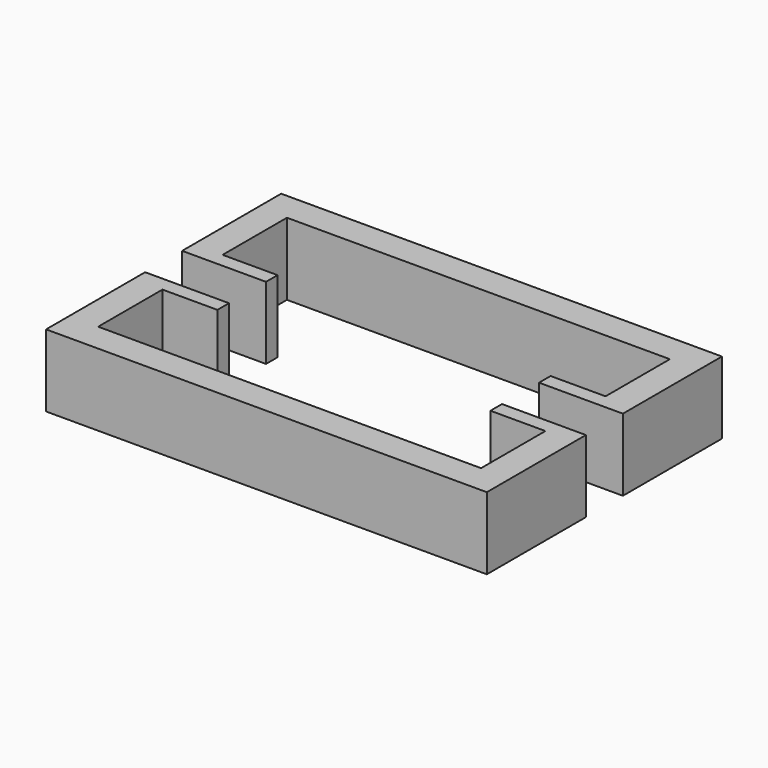
from build123d import *

# Parameters (mm, degrees)
F1_DEPTH = 25


with BuildPart() as f1:
    # F0 (on Top) → F1 (new body)
    with BuildSketch(Plane.XY):
        Polygon((-76.2, 101.6), (-76.2, 63.8), (-66.2, 63.8), (-66.2, 91.6), (66.2, 91.6), (66.2, 63.8), (76.2, 63.8), (76.2, 101.6), align=None)
        Polygon((-76.2, 63.8), (-76.2, 58.8), (-47.2, 58.8), (-47.2, 63.8), (-66.2, 63.8), align=None)
        Polygon((-76.2, 42.8), (-76.2, 37.8), (-66.2, 37.8), (-47.2, 37.8), (-47.2, 42.8), align=None)
        Polygon((-76.2, 37.8), (-76.2, 0), (76.2, 0), (76.2, 37.8), (66.2, 37.8), (66.2, 10), (-66.2, 10), (-66.2, 37.8), align=None)
        Polygon((47.2, 58.8), (76.2, 58.8), (76.2, 63.8), (66.2, 63.8), (47.2, 63.8), align=None)
        Polygon((66.2, 37.8), (76.2, 37.8), (76.2, 42.8), (47.2, 42.8), (47.2, 37.8), align=None)
    extrude(amount=F1_DEPTH)


solid = f1.part
